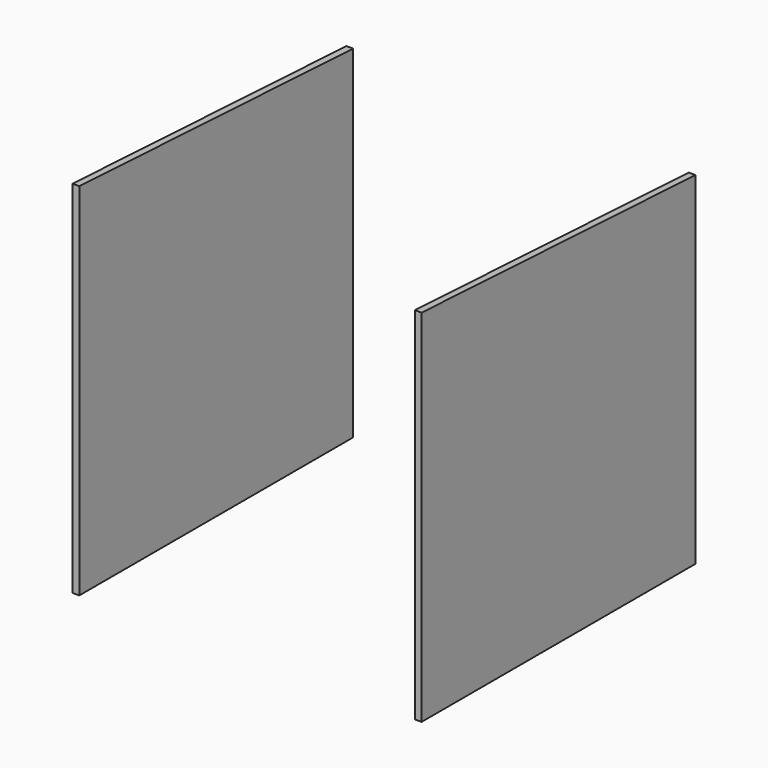
from build123d import *

# Parameters (mm, degrees)
F1_DEPTH = 9.525
F3_ANGLE = 180
F4_ANGLE = 180


with BuildPart() as f1:
    # F0 (on Right) → F1 (new body)
    with BuildSketch(Plane.YZ):
        Polygon((-920.3074241638, 362.3257244587), (-920.3074241638, -120.2742755413), (-437.7074241638, -120.2742755413), (-437.7074241638, 387.7257244587), align=None)
    extrude(amount=F1_DEPTH)


with BuildPart() as f2_1:
    # F2: copy of F1
    add(f1.part.moved(Location((482.6, 0, 0))))


with BuildPart() as f2_1_1:
    # F3: moved
    add(f2_1.part.rotate(Axis((492.125, -920.3074241638, 121.0257244587), (0, 0, -1)), F3_ANGLE))


with BuildPart() as f1_1:
    # F4: moved
    add(f1.part.rotate(Axis((9.525, -920.3074241638, 121.0257244587), (0, 0, -1)), F4_ANGLE))


solid = Compound([f2_1_1.part, f1_1.part])
